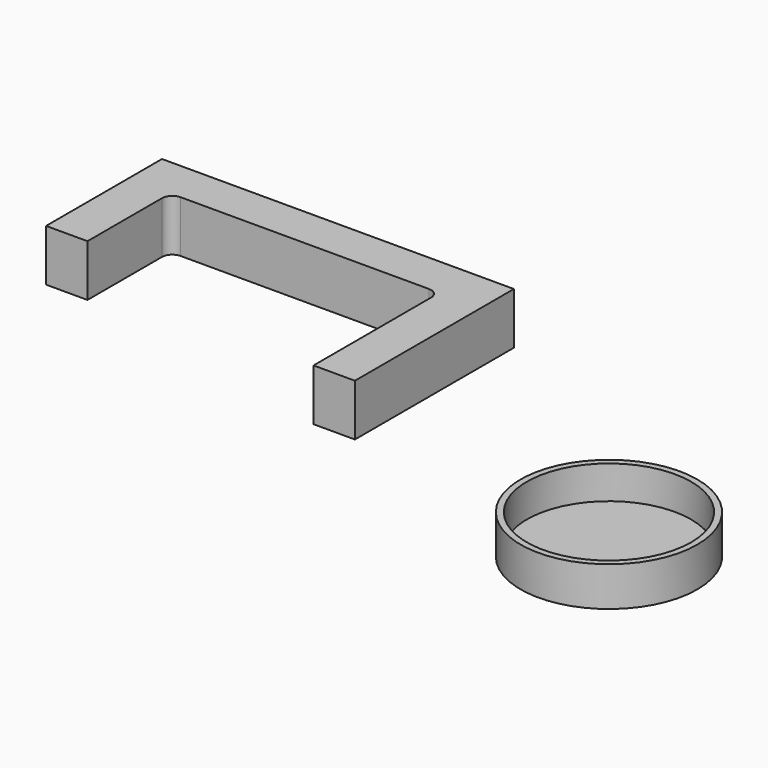
from build123d import *

# Parameters (mm, degrees)
F0_R     = 42.685
F0_R_2   = 39.685
F1_DEPTH = 3
F2_DEPTH = 19.05
F4_DEPTH = 25
F5_R     = 5


with BuildPart() as f1:
    # F0 (on Top) → F1 (new body)
    with BuildSketch(Plane.XY):
        Circle(F0_R)
        Circle(F0_R_2, mode=Mode.SUBTRACT)
        Circle(F0_R_2)
    extrude(amount=F1_DEPTH)

    # F0 (on Top) → F2 (join)
    with BuildSketch(Plane.XY):
        Circle(F0_R)
        Circle(F0_R_2, mode=Mode.SUBTRACT)
    extrude(amount=F2_DEPTH)


with BuildPart() as f4:
    # F3 (on Top) → F4 (new body)
    with BuildSketch(Plane.XY):
        Polygon((-304.7044279708, 40.9547965858), (-284.7044279708, 40.9547965858), (-284.7044279708, 90.9547965858), (-154.7044279708, 90.9547965858), (-154.7044279708, 14.9547965858), (-134.7044279708, 14.9547965858), (-134.7044279708, 110.9547965858), (-304.7044279708, 110.9547965858), (-304.7044279708, 90.9547965858), align=None)
    extrude(amount=F4_DEPTH)

    # F5
    f5_edges = [f4.edges().sort_by_distance(p)[0] for p in [
        (-284.704428, 90.954797, 12.5),
        (-154.704428, 90.954797, 12.5),
    ]]
    fillet(f5_edges, radius=F5_R)


solid = Compound([f1.part, f4.part])
